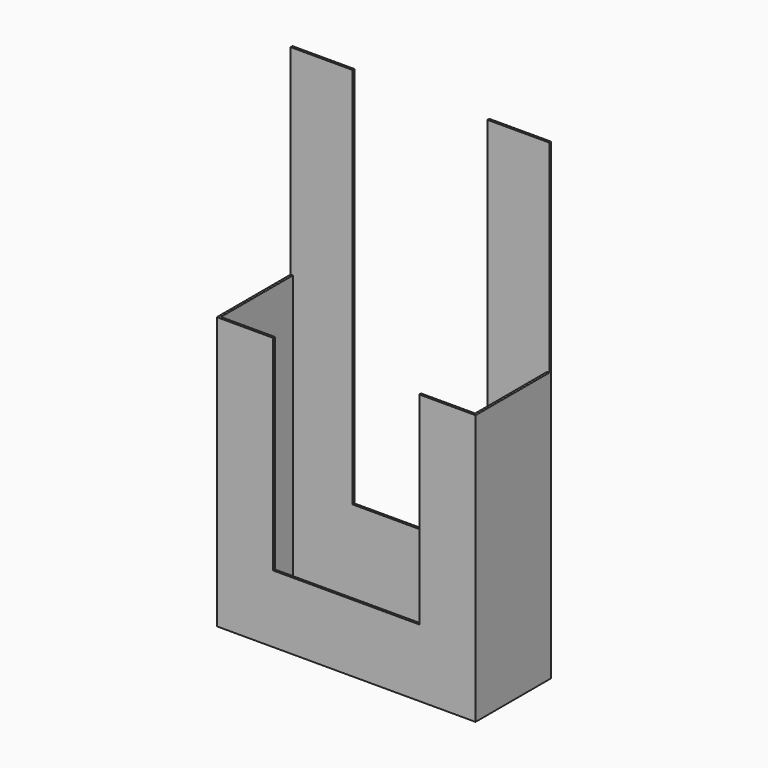
from build123d import *

# Parameters (mm, degrees)
F0_W      = 292.1
F0_H      = 279.4
F1_DEPTH  = 2.54
F4_DEPTH  = 101.6
F5_W      = 63.5
F5_H      = 231.14
F5_H_2    = 76.2
F5_W_2    = 165.1
F5_H_3    = 228.6
F6_DEPTH  = 2.54
F7_W      = 292.1
F7_H      = 2.54
F8_DEPTH  = 25.4
F9_W      = 152.4
F9_H      = 431.8
F10_DEPTH = 25.4


with BuildPart() as f1:
    # F0 (on Front) → F1 (new body)
    with BuildSketch(Plane.XZ):
        Rectangle(F0_W, F0_H)
    extrude(amount=-F1_DEPTH)

    # F2: F1 across face


with BuildPart() as f1_1:
    add(f1.part)
    add(f1.part.mirror(Plane(origin=(0, 1.27, 139.7), x_dir=(1, 0, 0), z_dir=(0, 0, 1))))

    # F3 (on face) → F4 (join)
    with BuildSketch(Plane.XZ):
        Polygon((-143.51, -137.16), (-143.51, 167.64), (-146.05, 167.64), (-146.05, -139.7), (146.05, -139.7), (146.05, 165.1), (143.51, 165.1), (143.51, -137.16), align=None)
    extrude(amount=F4_DEPTH)

    # F5 (on face) → F6 (join)
    with BuildSketch(Plane.XZ.offset(101.6)):
        with Locations((-114.3, 52.07)):
            Rectangle(F5_W, F5_H)
        with Locations((-114.3, -101.6)):
            Rectangle(F5_W, F5_H_2)
        with Locations((0, -101.6)):
            Rectangle(F5_W_2, F5_H_2)
        with Locations((114.3, 50.8)):
            Rectangle(F5_W, F5_H_3)
        with Locations((114.3, -101.6)):
            Rectangle(F5_W, F5_H_2)
    extrude(amount=F6_DEPTH)

    # F7 (on face) → F8 (cut)
    with BuildSketch(Plane.XY.offset(419.1)):
        with Locations((0, 1.27)):
            Rectangle(F7_W, F7_H)
    extrude(amount=-F8_DEPTH, mode=Mode.SUBTRACT)

    # F9 (on face) → F10 (cut)
    with BuildSketch(Plane.XZ):
        with Locations((0, 177.8)):
            Rectangle(F9_W, F9_H)
    extrude(amount=-F10_DEPTH, mode=Mode.SUBTRACT)


solid = f1_1.part
